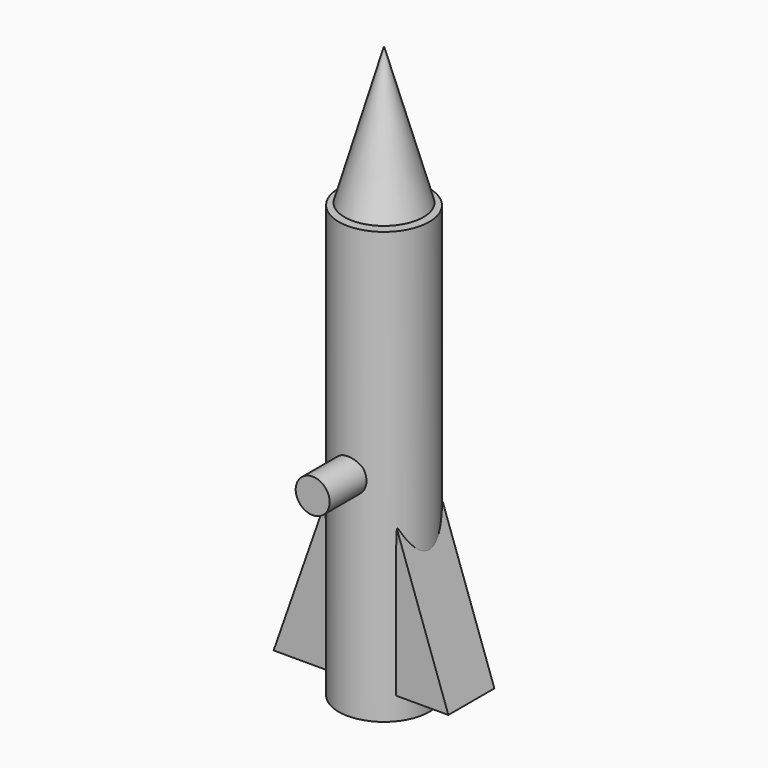
from build123d import *

# Parameters (mm, degrees)
F0_R     = 4
F1_DEPTH = 38.1
F5_DEPTH = 2.54
F7_R     = 1.5
F8_DEPTH = 4.064


with BuildPart() as f1:
    # F0 (on Top) → F1 (new body)
    with BuildSketch(Plane.XY):
        Circle(F0_R)
    extrude(amount=F1_DEPTH)

    # F2 (on Right) → F3 (revolve)
    with BuildSketch(Plane.YZ):
        Polygon((0, 50.466843), (0, 36.88176), (3.484131, 38.298216), align=None)
    revolve(axis=Axis((0, 0, 43.674301), (0, 0, 1)))

    # F4 (on Front) → F5 (join, symmetric)
    with BuildSketch(Plane.XZ):
        Polygon((-7.716181, 2.000377), (-2.643188, 2.000377), (-3.163495, 15.008056), align=None)
        Polygon((7.716181, 2.000377), (3.163495, 15.008056), (2.643188, 2.000377), align=None)
    extrude(amount=F5_DEPTH, both=True)

    # F7 (on offset) → F8 (join)
    with BuildSketch(Plane.XZ.offset(3.81)):
        with Locations((0, 18.695335)):
            Circle(F7_R)
    extrude(amount=F8_DEPTH)


solid = f1.part
